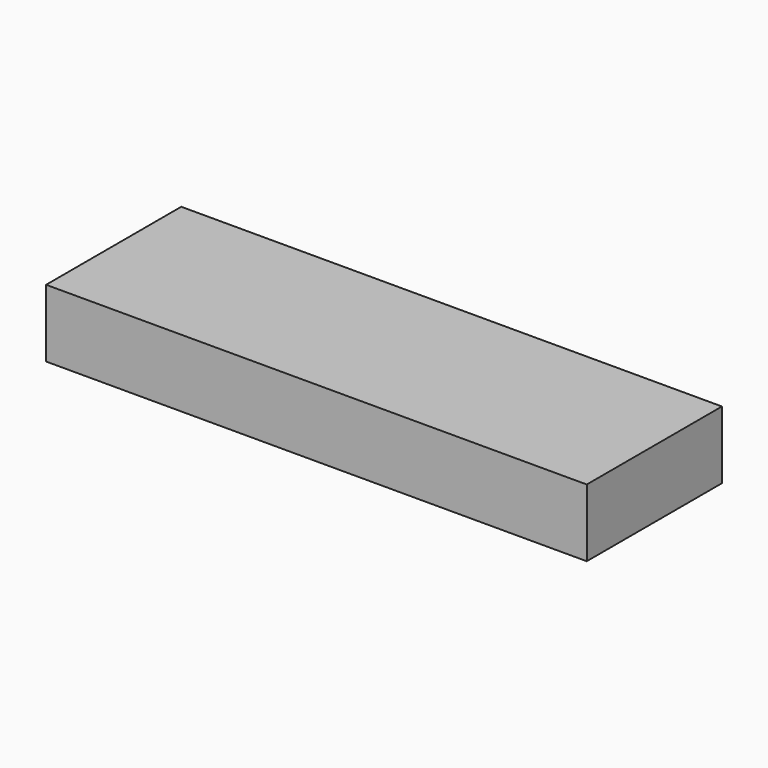
from build123d import *

# Parameters (mm, degrees)
F1_DEPTH = 50
F2_W     = 47.489673
F2_H     = 124.635399
F2_W_2   = 145.976685
F3_DEPTH = 50


with BuildPart() as f1:
    # F0 (on Front) → F1 (new body)
    with BuildSketch(Plane.XZ):
        Polygon((170, -41.64284), (0, -41.64284), (-170, -41.64284), (-170, -169.64284), (-150, -169.64284), (-150, -61.64284), (-30, -61.64284), (0, -61.64284), (30, -61.64284), (150, -61.64284), (150, -169.64284), (170, -169.64284), align=None)
        Polygon((0, -61.64284), (-30, -61.64284), (-30, -169.64284), (0, -169.64284), (30, -169.64284), (30, -61.64284), align=None)
    extrude(amount=F1_DEPTH)

    # F2 (on face) → F3 (cut)
    with BuildSketch(Plane.XZ.offset(50)):
        Polygon((10, -41.64284), (-180.508152, -41.64284), (-180.508152, -61.64284), (-133.018479, -61.64284), (10, -61.64284), align=None)
        with Locations((-156.763315, -123.960539)):
            Rectangle(F2_W, F2_H)
        Polygon((45.131274, -61.64284), (10, -61.64284), (-133.018479, -61.64284), (-133.018479, -186.278239), (45.131274, -186.278239), align=None)
        with Locations((118.119616, -123.960539)):
            Rectangle(F2_W_2, F2_H)
    extrude(amount=-F3_DEPTH, mode=Mode.SUBTRACT)


solid = f1.part
